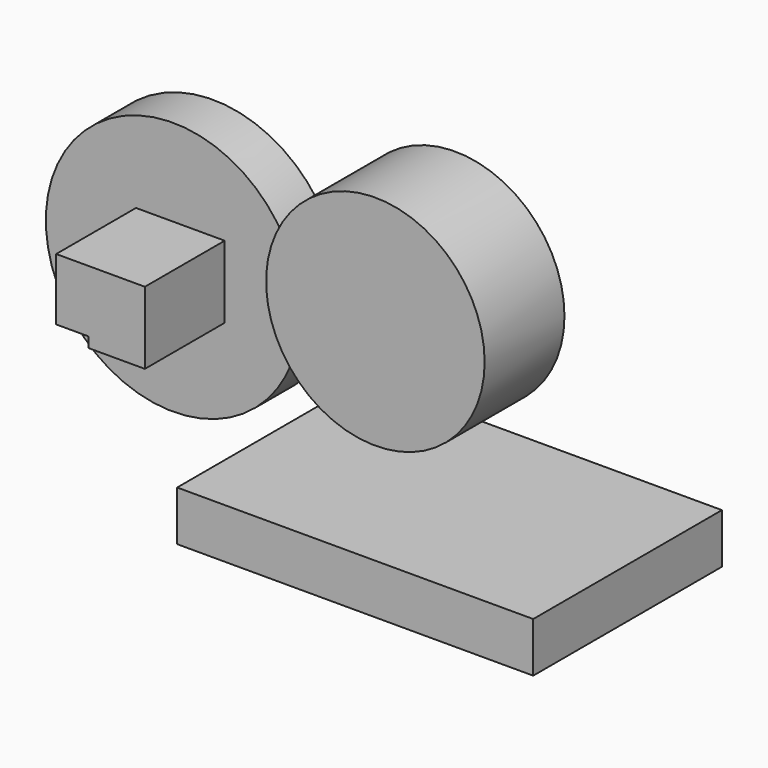
from build123d import *

# Parameters (mm, degrees)
F0_R      = 64.7752011443
F1_DEPTH  = 25.4
F2_W      = 19.7602212429
F2_H      = 36.8101298809
F3_DEPTH  = 25.4
F4_DEPTH  = 25.4
F5_W      = 28.6991394401
F5_H      = 5.2353404462
F6_DEPTH  = 25.4
F7_W      = 181.3011337072
F7_H      = 120.1144829392
F8_DEPTH  = 25.4
F9_R      = 55.6370243783
F10_DEPTH = 25.4
F11_DEPTH = 25.4


with BuildPart() as f1:
    # F0 (on Front) → F1 (new body)
    with BuildSketch(Plane.XZ):
        with Locations((-61.6758428514, 60.3350028396)):
            Circle(F0_R)
    extrude(amount=F1_DEPTH)

    # F2 (on face) → F3 (join)
    with BuildSketch(Plane.XZ.offset(25.4)):
        with Locations((-70.6635266542, 62.3567551374)):
            Rectangle(F2_W, F2_H)
    extrude(amount=F3_DEPTH)

    # F4 (add): a face of the model
    f4_faces = [f1.faces().sort_by_distance(p)[0] for p in [
        (-60.7834160328, -38.1, 62.3567551374),
    ]]
    extrude(f4_faces, amount=F4_DEPTH)

    # F5 (on face) → F6 (join)
    with BuildSketch(Plane.XZ.offset(50.8)):
        with Locations((-49.7329857528, 46.5693604201)):
            Rectangle(F5_W, F5_H)
        Polygon((-35.3834160328, 80.7618200779), (-80.5436372757, 80.7618200779), (-80.5436372757, 49.1870306432), (-64.0825554729, 49.1870306432), (-35.3834160328, 49.1870306432), align=None)
    extrude(amount=F6_DEPTH)


with BuildPart() as f8:
    # F7 (on Top) → F8 (new body)
    with BuildSketch(Plane.XY):
        with Locations((106.8395888433, -60.0572414696)):
            Rectangle(F7_W, F7_H)
    extrude(amount=F8_DEPTH)


with BuildPart() as f10:
    # F9 (on Front) → F10 (new body)
    with BuildSketch(Plane.XZ):
        with Locations((61.6758391261, 86.3628461957)):
            Circle(F9_R)
    extrude(amount=F10_DEPTH)

    # F11 (add): a face of the model
    f11_faces = [f10.faces().sort_by_distance(p)[0] for p in [
        (61.6758391261, -25.4, 86.3628461957),
    ]]
    extrude(f11_faces, amount=F11_DEPTH)


solid = Compound([f1.part, f8.part, f10.part])
